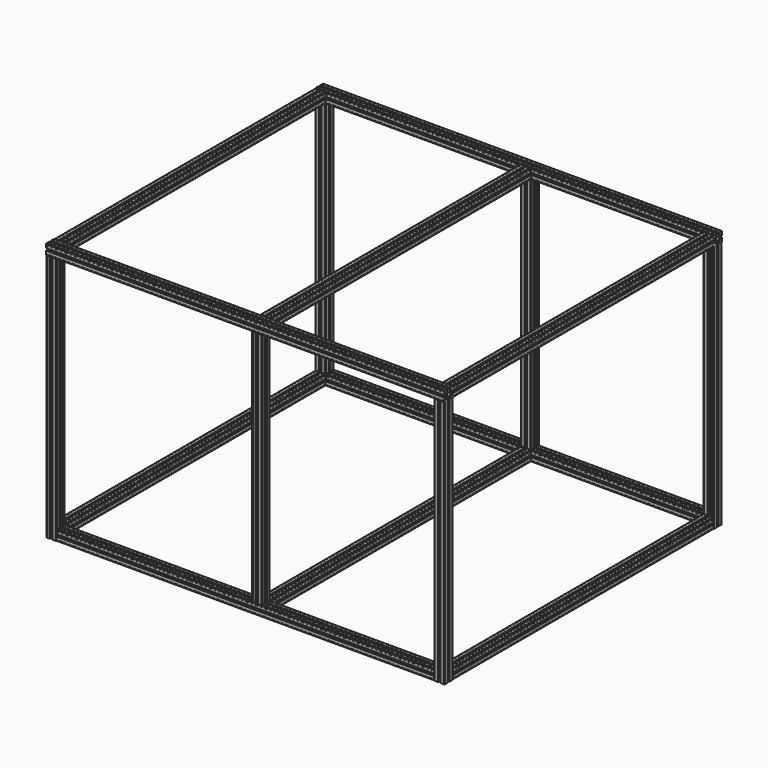
from build123d import *

# Parameters (mm, degrees)
F1_DEPTH       = 480
F6_DEPTH       = 730
F10_DEPTH      = 20
F10_DEPTH_BACK = 750
F15_DEPTH      = 630
F22_DEPTH      = 460


with BuildPart() as f1:
    # F0 (on Top) → F1 (new body)
    with BuildSketch(Plane.XY):
        with BuildLine():
            Line((25.693125, -24.475), (25.693125, -23.275))
            Line((25.693125, -23.275), (25.009673, -23.275))
            Line((25.009673, -23.275), (24.043125, -22.308452))
            Line((24.043125, -22.308452), (24.043125, -21.625))
            Line((24.043125, -21.625), (22.843125, -21.625))
            Line((22.843125, -21.625), (22.843125, -24.125))
            Line((22.843125, -24.125), (18.693125, -24.9362781955))
            Line((18.693125, -24.9362781955), (18.693125, -27.025))
            ThreePointArc((18.693125, -27.025), (19.8244958499, -27.4936291501), (20.293125, -28.625))
            Line((20.293125, -28.625), (22.3818468045, -28.625))
            Line((22.3818468045, -28.625), (21.893125, -26.125))
            Line((21.893125, -26.125), (23.193125, -26.125))
            Line((23.193125, -26.125), (23.193125, -24.475))
            Line((23.193125, -24.475), (25.693125, -24.475))
        make_face()
        with BuildLine():
            Line((23.193125, -32.775), (22.3818468045, -28.625))
            Line((22.3818468045, -28.625), (20.293125, -28.625))
            ThreePointArc((20.293125, -28.625), (19.8244958499, -29.7563708499), (18.693125, -30.225))
            Line((18.693125, -30.225), (18.693125, -32.3137218045))
            Line((18.693125, -32.3137218045), (21.193125, -31.825))
            Line((21.193125, -31.825), (21.193125, -33.125))
            Line((21.193125, -33.125), (22.843125, -33.125))
            Line((22.843125, -33.125), (22.843125, -35.625))
            Line((22.843125, -35.625), (24.043125, -35.625))
            Line((24.043125, -35.625), (24.043125, -34.941548))
            Line((24.043125, -34.941548), (25.009673, -33.975))
            Line((25.009673, -33.975), (25.693125, -33.975))
            Line((25.693125, -33.975), (25.693125, -32.775))
            Line((25.693125, -32.775), (23.193125, -32.775))
        make_face()
        with BuildLine():
            Line((18.693125, -27.025), (18.693125, -24.9362781955))
            Line((18.693125, -24.9362781955), (16.193125, -25.425))
            Line((16.193125, -25.425), (16.193125, -24.125))
            Line((16.193125, -24.125), (14.543125, -24.125))
            Line((14.543125, -24.125), (14.543125, -21.625))
            Line((14.543125, -21.625), (13.343125, -21.625))
            Line((13.343125, -21.625), (13.343125, -22.308452))
            Line((13.343125, -22.308452), (12.376577, -23.275))
            Line((12.376577, -23.275), (11.693125, -23.275))
            Line((11.693125, -23.275), (11.693125, -24.475))
            Line((11.693125, -24.475), (14.193125, -24.475))
            Line((14.193125, -24.475), (15.0044031955, -28.625))
            Line((15.0044031955, -28.625), (17.093125, -28.625))
            ThreePointArc((17.093125, -28.625), (17.5617541501, -27.4936291501), (18.693125, -27.025))
        make_face()
        with BuildLine():
            ThreePointArc((18.693125, -30.225), (17.5617541501, -29.7563708499), (17.093125, -28.625))
            Line((17.093125, -28.625), (15.0044031955, -28.625))
            Line((15.0044031955, -28.625), (15.493125, -31.125))
            Line((15.493125, -31.125), (14.193125, -31.125))
            Line((14.193125, -31.125), (14.193125, -32.775))
            Line((14.193125, -32.775), (11.693125, -32.775))
            Line((11.693125, -32.775), (11.693125, -33.975))
            Line((11.693125, -33.975), (12.376577, -33.975))
            Line((12.376577, -33.975), (13.343125, -34.941548))
            Line((13.343125, -34.941548), (13.343125, -35.625))
            Line((13.343125, -35.625), (14.543125, -35.625))
            Line((14.543125, -35.625), (14.543125, -33.125))
            Line((14.543125, -33.125), (18.693125, -32.3137218045))
            Line((18.693125, -32.3137218045), (18.693125, -30.225))
        make_face()
        with BuildLine():
            Line((18.693125, -30.225), (18.693125, -28.625))
            Line((18.693125, -28.625), (17.093125, -28.625))
            ThreePointArc((17.093125, -28.625), (17.5617541501, -29.7563708499), (18.693125, -30.225))
        make_face()
        with BuildLine():
            Line((20.293125, -28.625), (18.693125, -28.625))
            Line((18.693125, -28.625), (18.693125, -30.225))
            ThreePointArc((18.693125, -30.225), (19.8244958499, -29.7563708499), (20.293125, -28.625))
        make_face()
        with BuildLine():
            ThreePointArc((20.293125, -28.625), (19.8244958499, -27.4936291501), (18.693125, -27.025))
            Line((18.693125, -27.025), (18.693125, -28.625))
            Line((18.693125, -28.625), (20.293125, -28.625))
        make_face()
        with BuildLine():
            Line((18.693125, -28.625), (18.693125, -27.025))
            ThreePointArc((18.693125, -27.025), (17.5617541501, -27.4936291501), (17.093125, -28.625))
            Line((17.093125, -28.625), (18.693125, -28.625))
        make_face()
        Polygon((11.693125, -35.625), (13.343125, -35.625), (13.343125, -34.941548), (12.376577, -33.975), (11.693125, -33.975), align=None)
        Polygon((13.343125, -36.308452), (13.343125, -35.625), (11.693125, -35.625), (11.693125, -37.275), (12.376577, -37.275), align=None)
        Polygon((10.043125, -35.625), (11.693125, -35.625), (11.693125, -33.975), (11.009673, -33.975), (10.043125, -34.941548), align=None)
        Polygon((11.693125, -37.275), (11.693125, -35.625), (10.043125, -35.625), (10.043125, -36.308452), (11.009673, -37.275), align=None)
        Polygon((13.343125, -21.625), (14.543125, -21.625), (14.543125, -20.125), (16.543125, -20.125), (16.543125, -18.625), (12.443125, -18.625), (12.443125, -18.825), (11.693125, -18.825), (11.693125, -19.975), (12.376577, -19.975), (13.343125, -20.941548), align=None)
        Polygon((14.543125, -37.125), (14.543125, -35.625), (13.343125, -35.625), (13.343125, -36.308452), (12.376577, -37.275), (11.693125, -37.275), (11.693125, -38.425), (12.443125, -38.425), (12.443125, -38.625), (16.543125, -38.625), (16.543125, -37.125), align=None)
        Polygon((11.693125, -21.625), (13.343125, -21.625), (13.343125, -20.941548), (12.376577, -19.975), (11.693125, -19.975), align=None)
        Polygon((27.193125, -32.775), (25.693125, -32.775), (25.693125, -33.975), (26.376577, -33.975), (27.343125, -34.941548), (27.343125, -35.625), (28.493125, -35.625), (28.493125, -34.875), (28.693125, -34.875), (28.693125, -30.775), (27.193125, -30.775), align=None)
        Polygon((25.693125, -19.975), (25.693125, -18.825), (24.943125, -18.825), (24.943125, -18.625), (20.843125, -18.625), (20.843125, -20.125), (22.843125, -20.125), (22.843125, -21.625), (24.043125, -21.625), (24.043125, -20.941548), (25.009673, -19.975), align=None)
        Polygon((25.693125, -21.625), (25.693125, -19.975), (25.009673, -19.975), (24.043125, -20.941548), (24.043125, -21.625), align=None)
        Polygon((26.376577, -23.275), (25.693125, -23.275), (25.693125, -24.475), (27.193125, -24.475), (27.193125, -26.475), (28.693125, -26.475), (28.693125, -22.375), (28.493125, -22.375), (28.493125, -21.625), (27.343125, -21.625), (27.343125, -22.308452), align=None)
        Polygon((25.693125, -38.425), (25.693125, -37.275), (25.009673, -37.275), (24.043125, -36.308452), (24.043125, -35.625), (22.843125, -35.625), (22.843125, -37.125), (20.843125, -37.125), (20.843125, -38.625), (24.943125, -38.625), (24.943125, -38.425), align=None)
        Polygon((25.693125, -37.275), (25.693125, -35.625), (24.043125, -35.625), (24.043125, -36.308452), (25.009673, -37.275), align=None)
        Polygon((27.343125, -35.625), (25.693125, -35.625), (25.693125, -37.275), (26.376577, -37.275), (27.343125, -36.308452), align=None)
        Polygon((26.376577, -33.975), (25.693125, -33.975), (25.693125, -35.625), (27.343125, -35.625), (27.343125, -34.941548), align=None)
        Polygon((11.009673, -23.275), (11.693125, -23.275), (11.693125, -21.625), (10.043125, -21.625), (10.043125, -22.308452), align=None)
        Polygon((11.693125, -33.975), (11.693125, -32.775), (10.193125, -32.775), (10.193125, -30.775), (8.693125, -30.775), (8.693125, -34.875), (8.893125, -34.875), (8.893125, -35.625), (10.043125, -35.625), (10.043125, -34.941548), (11.009673, -33.975), align=None)
        Polygon((10.193125, -24.475), (11.693125, -24.475), (11.693125, -23.275), (11.009673, -23.275), (10.043125, -22.308452), (10.043125, -21.625), (8.893125, -21.625), (8.893125, -22.375), (8.693125, -22.375), (8.693125, -26.475), (10.193125, -26.475), align=None)
        Polygon((11.693125, -38.425), (11.693125, -37.275), (11.009673, -37.275), (10.043125, -36.308452), (10.043125, -35.625), (8.893125, -35.625), (8.893125, -36.375), (8.693125, -36.375), (8.693125, -37.625), (9.693125, -38.625), (10.943125, -38.625), (10.943125, -38.425), align=None)
        Polygon((11.009673, -19.975), (11.693125, -19.975), (11.693125, -18.825), (10.943125, -18.825), (10.943125, -18.625), (9.693125, -18.625), (8.693125, -19.625), (8.693125, -20.875), (8.893125, -20.875), (8.893125, -21.625), (10.043125, -21.625), (10.043125, -20.941548), align=None)
        Polygon((10.043125, -21.625), (11.693125, -21.625), (11.693125, -19.975), (11.009673, -19.975), (10.043125, -20.941548), align=None)
        Polygon((26.443125, -18.825), (25.693125, -18.825), (25.693125, -19.975), (26.376577, -19.975), (27.343125, -20.941548), (27.343125, -21.625), (28.493125, -21.625), (28.493125, -20.875), (28.693125, -20.875), (28.693125, -19.625), (27.693125, -18.625), (26.443125, -18.625), align=None)
        Polygon((26.376577, -19.975), (25.693125, -19.975), (25.693125, -21.625), (27.343125, -21.625), (27.343125, -20.941548), align=None)
        Polygon((25.693125, -23.275), (25.693125, -21.625), (24.043125, -21.625), (24.043125, -22.308452), (25.009673, -23.275), align=None)
        Polygon((26.376577, -37.275), (25.693125, -37.275), (25.693125, -38.425), (26.443125, -38.425), (26.443125, -38.625), (27.693125, -38.625), (28.693125, -37.625), (28.693125, -36.375), (28.493125, -36.375), (28.493125, -35.625), (27.343125, -35.625), (27.343125, -36.308452), align=None)
        Polygon((25.693125, -35.625), (25.693125, -33.975), (25.009673, -33.975), (24.043125, -34.941548), (24.043125, -35.625), align=None)
        Polygon((13.343125, -22.308452), (13.343125, -21.625), (11.693125, -21.625), (11.693125, -23.275), (12.376577, -23.275), align=None)
        Polygon((27.343125, -21.625), (25.693125, -21.625), (25.693125, -23.275), (26.376577, -23.275), (27.343125, -22.308452), align=None)
    extrude(amount=F1_DEPTH)


with BuildPart() as f2_1:
    # F2: copy of F1
    add(f1.part.moved(Location((0, 650, 0))))


with BuildPart() as f3_1:
    # F3: copy of F1
    add(f1.part.moved(Location((-750, 0, 0))))


with BuildPart() as f3_2:
    # F3: copy of F2_1
    add(f2_1.part.moved(Location((-750, 0, 0))))


with BuildPart() as f6:
    # F5 (on offset) → F6 (new body)
    with BuildSketch(Plane.YZ.offset(8.7)):
        with BuildLine():
            Line((25.693125, -24.475), (25.693125, -23.275))
            Line((25.693125, -23.275), (25.009673, -23.275))
            Line((25.009673, -23.275), (24.043125, -22.308452))
            Line((24.043125, -22.308452), (24.043125, -21.625))
            Line((24.043125, -21.625), (22.843125, -21.625))
            Line((22.843125, -21.625), (22.843125, -24.125))
            Line((22.843125, -24.125), (18.693125, -24.9362781955))
            Line((18.693125, -24.9362781955), (18.693125, -27.025))
            ThreePointArc((18.693125, -27.025), (19.8244958499, -27.4936291501), (20.293125, -28.625))
            Line((20.293125, -28.625), (22.3818468045, -28.625))
            Line((22.3818468045, -28.625), (21.893125, -26.125))
            Line((21.893125, -26.125), (23.193125, -26.125))
            Line((23.193125, -26.125), (23.193125, -24.475))
            Line((23.193125, -24.475), (25.693125, -24.475))
        make_face()
        with BuildLine():
            Line((23.193125, -32.775), (22.3818468045, -28.625))
            Line((22.3818468045, -28.625), (20.293125, -28.625))
            ThreePointArc((20.293125, -28.625), (19.8244958499, -29.7563708499), (18.693125, -30.225))
            Line((18.693125, -30.225), (18.693125, -32.3137218045))
            Line((18.693125, -32.3137218045), (21.193125, -31.825))
            Line((21.193125, -31.825), (21.193125, -33.125))
            Line((21.193125, -33.125), (22.843125, -33.125))
            Line((22.843125, -33.125), (22.843125, -35.625))
            Line((22.843125, -35.625), (24.043125, -35.625))
            Line((24.043125, -35.625), (24.043125, -34.941548))
            Line((24.043125, -34.941548), (25.009673, -33.975))
            Line((25.009673, -33.975), (25.693125, -33.975))
            Line((25.693125, -33.975), (25.693125, -32.775))
            Line((25.693125, -32.775), (23.193125, -32.775))
        make_face()
        with BuildLine():
            Line((18.693125, -27.025), (18.693125, -24.9362781955))
            Line((18.693125, -24.9362781955), (16.193125, -25.425))
            Line((16.193125, -25.425), (16.193125, -24.125))
            Line((16.193125, -24.125), (14.543125, -24.125))
            Line((14.543125, -24.125), (14.543125, -21.625))
            Line((14.543125, -21.625), (13.343125, -21.625))
            Line((13.343125, -21.625), (13.343125, -22.308452))
            Line((13.343125, -22.308452), (12.376577, -23.275))
            Line((12.376577, -23.275), (11.693125, -23.275))
            Line((11.693125, -23.275), (11.693125, -24.475))
            Line((11.693125, -24.475), (14.193125, -24.475))
            Line((14.193125, -24.475), (15.0044031955, -28.625))
            Line((15.0044031955, -28.625), (17.093125, -28.625))
            ThreePointArc((17.093125, -28.625), (17.5617541501, -27.4936291501), (18.693125, -27.025))
        make_face()
        with BuildLine():
            ThreePointArc((18.693125, -30.225), (17.5617541501, -29.7563708499), (17.093125, -28.625))
            Line((17.093125, -28.625), (15.0044031955, -28.625))
            Line((15.0044031955, -28.625), (15.493125, -31.125))
            Line((15.493125, -31.125), (14.193125, -31.125))
            Line((14.193125, -31.125), (14.193125, -32.775))
            Line((14.193125, -32.775), (11.693125, -32.775))
            Line((11.693125, -32.775), (11.693125, -33.975))
            Line((11.693125, -33.975), (12.376577, -33.975))
            Line((12.376577, -33.975), (13.343125, -34.941548))
            Line((13.343125, -34.941548), (13.343125, -35.625))
            Line((13.343125, -35.625), (14.543125, -35.625))
            Line((14.543125, -35.625), (14.543125, -33.125))
            Line((14.543125, -33.125), (18.693125, -32.3137218045))
            Line((18.693125, -32.3137218045), (18.693125, -30.225))
        make_face()
        Polygon((14.543125, -37.125), (14.543125, -35.625), (13.343125, -35.625), (13.343125, -36.308452), (12.376577, -37.275), (11.693125, -37.275), (11.693125, -38.425), (12.443125, -38.425), (12.443125, -38.625), (16.543125, -38.625), (16.543125, -37.125), align=None)
        with BuildLine():
            ThreePointArc((20.293125, -28.625), (19.8244958499, -27.4936291501), (18.693125, -27.025))
            Line((18.693125, -27.025), (18.693125, -28.625))
            Line((18.693125, -28.625), (20.293125, -28.625))
        make_face()
        with BuildLine():
            Line((18.693125, -30.225), (18.693125, -28.625))
            Line((18.693125, -28.625), (17.093125, -28.625))
            ThreePointArc((17.093125, -28.625), (17.5617541501, -29.7563708499), (18.693125, -30.225))
        make_face()
        with BuildLine():
            Line((20.293125, -28.625), (18.693125, -28.625))
            Line((18.693125, -28.625), (18.693125, -30.225))
            ThreePointArc((18.693125, -30.225), (19.8244958499, -29.7563708499), (20.293125, -28.625))
        make_face()
        Polygon((13.343125, -21.625), (14.543125, -21.625), (14.543125, -20.125), (16.543125, -20.125), (16.543125, -18.625), (12.443125, -18.625), (12.443125, -18.825), (11.693125, -18.825), (11.693125, -19.975), (12.376577, -19.975), (13.343125, -20.941548), align=None)
        with BuildLine():
            Line((18.693125, -28.625), (18.693125, -27.025))
            ThreePointArc((18.693125, -27.025), (17.5617541501, -27.4936291501), (17.093125, -28.625))
            Line((17.093125, -28.625), (18.693125, -28.625))
        make_face()
        Polygon((25.693125, -19.975), (25.693125, -18.825), (24.943125, -18.825), (24.943125, -18.625), (20.843125, -18.625), (20.843125, -20.125), (22.843125, -20.125), (22.843125, -21.625), (24.043125, -21.625), (24.043125, -20.941548), (25.009673, -19.975), align=None)
        Polygon((25.693125, -38.425), (25.693125, -37.275), (25.009673, -37.275), (24.043125, -36.308452), (24.043125, -35.625), (22.843125, -35.625), (22.843125, -37.125), (20.843125, -37.125), (20.843125, -38.625), (24.943125, -38.625), (24.943125, -38.425), align=None)
        Polygon((11.009673, -19.975), (11.693125, -19.975), (11.693125, -18.825), (10.943125, -18.825), (10.943125, -18.625), (9.693125, -18.625), (8.693125, -19.625), (8.693125, -20.875), (8.893125, -20.875), (8.893125, -21.625), (10.043125, -21.625), (10.043125, -20.941548), align=None)
        Polygon((11.693125, -21.625), (13.343125, -21.625), (13.343125, -20.941548), (12.376577, -19.975), (11.693125, -19.975), align=None)
        Polygon((10.043125, -21.625), (11.693125, -21.625), (11.693125, -19.975), (11.009673, -19.975), (10.043125, -20.941548), align=None)
        Polygon((13.343125, -22.308452), (13.343125, -21.625), (11.693125, -21.625), (11.693125, -23.275), (12.376577, -23.275), align=None)
        Polygon((11.009673, -23.275), (11.693125, -23.275), (11.693125, -21.625), (10.043125, -21.625), (10.043125, -22.308452), align=None)
        Polygon((10.193125, -24.475), (11.693125, -24.475), (11.693125, -23.275), (11.009673, -23.275), (10.043125, -22.308452), (10.043125, -21.625), (8.893125, -21.625), (8.893125, -22.375), (8.693125, -22.375), (8.693125, -26.475), (10.193125, -26.475), align=None)
        Polygon((11.693125, -33.975), (11.693125, -32.775), (10.193125, -32.775), (10.193125, -30.775), (8.693125, -30.775), (8.693125, -34.875), (8.893125, -34.875), (8.893125, -35.625), (10.043125, -35.625), (10.043125, -34.941548), (11.009673, -33.975), align=None)
        Polygon((11.693125, -35.625), (13.343125, -35.625), (13.343125, -34.941548), (12.376577, -33.975), (11.693125, -33.975), align=None)
        Polygon((27.193125, -32.775), (25.693125, -32.775), (25.693125, -33.975), (26.376577, -33.975), (27.343125, -34.941548), (27.343125, -35.625), (28.493125, -35.625), (28.493125, -34.875), (28.693125, -34.875), (28.693125, -30.775), (27.193125, -30.775), align=None)
        Polygon((26.443125, -18.825), (25.693125, -18.825), (25.693125, -19.975), (26.376577, -19.975), (27.343125, -20.941548), (27.343125, -21.625), (28.493125, -21.625), (28.493125, -20.875), (28.693125, -20.875), (28.693125, -19.625), (27.693125, -18.625), (26.443125, -18.625), align=None)
        Polygon((25.693125, -21.625), (25.693125, -19.975), (25.009673, -19.975), (24.043125, -20.941548), (24.043125, -21.625), align=None)
        Polygon((13.343125, -36.308452), (13.343125, -35.625), (11.693125, -35.625), (11.693125, -37.275), (12.376577, -37.275), align=None)
        Polygon((26.376577, -19.975), (25.693125, -19.975), (25.693125, -21.625), (27.343125, -21.625), (27.343125, -20.941548), align=None)
        Polygon((25.693125, -23.275), (25.693125, -21.625), (24.043125, -21.625), (24.043125, -22.308452), (25.009673, -23.275), align=None)
        Polygon((27.343125, -21.625), (25.693125, -21.625), (25.693125, -23.275), (26.376577, -23.275), (27.343125, -22.308452), align=None)
        Polygon((26.376577, -23.275), (25.693125, -23.275), (25.693125, -24.475), (27.193125, -24.475), (27.193125, -26.475), (28.693125, -26.475), (28.693125, -22.375), (28.493125, -22.375), (28.493125, -21.625), (27.343125, -21.625), (27.343125, -22.308452), align=None)
        Polygon((26.376577, -37.275), (25.693125, -37.275), (25.693125, -38.425), (26.443125, -38.425), (26.443125, -38.625), (27.693125, -38.625), (28.693125, -37.625), (28.693125, -36.375), (28.493125, -36.375), (28.493125, -35.625), (27.343125, -35.625), (27.343125, -36.308452), align=None)
        Polygon((25.693125, -37.275), (25.693125, -35.625), (24.043125, -35.625), (24.043125, -36.308452), (25.009673, -37.275), align=None)
        Polygon((10.043125, -35.625), (11.693125, -35.625), (11.693125, -33.975), (11.009673, -33.975), (10.043125, -34.941548), align=None)
        Polygon((27.343125, -35.625), (25.693125, -35.625), (25.693125, -37.275), (26.376577, -37.275), (27.343125, -36.308452), align=None)
        Polygon((25.693125, -35.625), (25.693125, -33.975), (25.009673, -33.975), (24.043125, -34.941548), (24.043125, -35.625), align=None)
        Polygon((26.376577, -33.975), (25.693125, -33.975), (25.693125, -35.625), (27.343125, -35.625), (27.343125, -34.941548), align=None)
        Polygon((11.693125, -37.275), (11.693125, -35.625), (10.043125, -35.625), (10.043125, -36.308452), (11.009673, -37.275), align=None)
        Polygon((11.693125, -38.425), (11.693125, -37.275), (11.009673, -37.275), (10.043125, -36.308452), (10.043125, -35.625), (8.893125, -35.625), (8.893125, -36.375), (8.693125, -36.375), (8.693125, -37.625), (9.693125, -38.625), (10.943125, -38.625), (10.943125, -38.425), align=None)
    extrude(amount=-F6_DEPTH)


with BuildPart() as f6_1:
    # F7: moved
    add(f6.part.moved(Location((0, -47.3, 38.65))))


with BuildPart() as f8_1:
    # F8: copy of F6
    add(f6_1.part.moved(Location((0, 650, 0))))


with BuildPart() as f10:
    # F9 (on offset) → F10 (new body, two sides)
    with BuildSketch(Plane.YZ.offset(8.7)) as f10_sk:
        with BuildLine():
            Line((25.693125, -24.475), (25.693125, -23.275))
            Line((25.693125, -23.275), (25.009673, -23.275))
            Line((25.009673, -23.275), (24.043125, -22.308452))
            Line((24.043125, -22.308452), (24.043125, -21.625))
            Line((24.043125, -21.625), (22.843125, -21.625))
            Line((22.843125, -21.625), (22.843125, -24.125))
            Line((22.843125, -24.125), (18.693125, -24.9362781955))
            Line((18.693125, -24.9362781955), (18.693125, -27.025))
            ThreePointArc((18.693125, -27.025), (19.8244958499, -27.4936291501), (20.293125, -28.625))
            Line((20.293125, -28.625), (22.3818468045, -28.625))
            Line((22.3818468045, -28.625), (21.893125, -26.125))
            Line((21.893125, -26.125), (23.193125, -26.125))
            Line((23.193125, -26.125), (23.193125, -24.475))
            Line((23.193125, -24.475), (25.693125, -24.475))
        make_face()
        with BuildLine():
            Line((23.193125, -32.775), (22.3818468045, -28.625))
            Line((22.3818468045, -28.625), (20.293125, -28.625))
            ThreePointArc((20.293125, -28.625), (19.8244958499, -29.7563708499), (18.693125, -30.225))
            Line((18.693125, -30.225), (18.693125, -32.3137218045))
            Line((18.693125, -32.3137218045), (21.193125, -31.825))
            Line((21.193125, -31.825), (21.193125, -33.125))
            Line((21.193125, -33.125), (22.843125, -33.125))
            Line((22.843125, -33.125), (22.843125, -35.625))
            Line((22.843125, -35.625), (24.043125, -35.625))
            Line((24.043125, -35.625), (24.043125, -34.941548))
            Line((24.043125, -34.941548), (25.009673, -33.975))
            Line((25.009673, -33.975), (25.693125, -33.975))
            Line((25.693125, -33.975), (25.693125, -32.775))
            Line((25.693125, -32.775), (23.193125, -32.775))
        make_face()
        with BuildLine():
            Line((18.693125, -27.025), (18.693125, -24.9362781955))
            Line((18.693125, -24.9362781955), (16.193125, -25.425))
            Line((16.193125, -25.425), (16.193125, -24.125))
            Line((16.193125, -24.125), (14.543125, -24.125))
            Line((14.543125, -24.125), (14.543125, -21.625))
            Line((14.543125, -21.625), (13.343125, -21.625))
            Line((13.343125, -21.625), (13.343125, -22.308452))
            Line((13.343125, -22.308452), (12.376577, -23.275))
            Line((12.376577, -23.275), (11.693125, -23.275))
            Line((11.693125, -23.275), (11.693125, -24.475))
            Line((11.693125, -24.475), (14.193125, -24.475))
            Line((14.193125, -24.475), (15.0044031955, -28.625))
            Line((15.0044031955, -28.625), (17.093125, -28.625))
            ThreePointArc((17.093125, -28.625), (17.5617541501, -27.4936291501), (18.693125, -27.025))
        make_face()
        with BuildLine():
            ThreePointArc((18.693125, -30.225), (17.5617541501, -29.7563708499), (17.093125, -28.625))
            Line((17.093125, -28.625), (15.0044031955, -28.625))
            Line((15.0044031955, -28.625), (15.493125, -31.125))
            Line((15.493125, -31.125), (14.193125, -31.125))
            Line((14.193125, -31.125), (14.193125, -32.775))
            Line((14.193125, -32.775), (11.693125, -32.775))
            Line((11.693125, -32.775), (11.693125, -33.975))
            Line((11.693125, -33.975), (12.376577, -33.975))
            Line((12.376577, -33.975), (13.343125, -34.941548))
            Line((13.343125, -34.941548), (13.343125, -35.625))
            Line((13.343125, -35.625), (14.543125, -35.625))
            Line((14.543125, -35.625), (14.543125, -33.125))
            Line((14.543125, -33.125), (18.693125, -32.3137218045))
            Line((18.693125, -32.3137218045), (18.693125, -30.225))
        make_face()
        with BuildLine():
            Line((18.693125, -30.225), (18.693125, -28.625))
            Line((18.693125, -28.625), (17.093125, -28.625))
            ThreePointArc((17.093125, -28.625), (17.5617541501, -29.7563708499), (18.693125, -30.225))
        make_face()
        with BuildLine():
            Line((20.293125, -28.625), (18.693125, -28.625))
            Line((18.693125, -28.625), (18.693125, -30.225))
            ThreePointArc((18.693125, -30.225), (19.8244958499, -29.7563708499), (20.293125, -28.625))
        make_face()
        with BuildLine():
            ThreePointArc((20.293125, -28.625), (19.8244958499, -27.4936291501), (18.693125, -27.025))
            Line((18.693125, -27.025), (18.693125, -28.625))
            Line((18.693125, -28.625), (20.293125, -28.625))
        make_face()
        with BuildLine():
            Line((18.693125, -28.625), (18.693125, -27.025))
            ThreePointArc((18.693125, -27.025), (17.5617541501, -27.4936291501), (17.093125, -28.625))
            Line((17.093125, -28.625), (18.693125, -28.625))
        make_face()
        Polygon((25.693125, -38.425), (25.693125, -37.275), (25.009673, -37.275), (24.043125, -36.308452), (24.043125, -35.625), (22.843125, -35.625), (22.843125, -37.125), (20.843125, -37.125), (20.843125, -38.625), (24.943125, -38.625), (24.943125, -38.425), align=None)
        Polygon((11.693125, -33.975), (11.693125, -32.775), (10.193125, -32.775), (10.193125, -30.775), (8.693125, -30.775), (8.693125, -34.875), (8.893125, -34.875), (8.893125, -35.625), (10.043125, -35.625), (10.043125, -34.941548), (11.009673, -33.975), align=None)
        Polygon((11.693125, -35.625), (13.343125, -35.625), (13.343125, -34.941548), (12.376577, -33.975), (11.693125, -33.975), align=None)
        Polygon((13.343125, -21.625), (14.543125, -21.625), (14.543125, -20.125), (16.543125, -20.125), (16.543125, -18.625), (12.443125, -18.625), (12.443125, -18.825), (11.693125, -18.825), (11.693125, -19.975), (12.376577, -19.975), (13.343125, -20.941548), align=None)
        Polygon((14.543125, -37.125), (14.543125, -35.625), (13.343125, -35.625), (13.343125, -36.308452), (12.376577, -37.275), (11.693125, -37.275), (11.693125, -38.425), (12.443125, -38.425), (12.443125, -38.625), (16.543125, -38.625), (16.543125, -37.125), align=None)
        Polygon((26.376577, -19.975), (25.693125, -19.975), (25.693125, -21.625), (27.343125, -21.625), (27.343125, -20.941548), align=None)
        Polygon((26.376577, -23.275), (25.693125, -23.275), (25.693125, -24.475), (27.193125, -24.475), (27.193125, -26.475), (28.693125, -26.475), (28.693125, -22.375), (28.493125, -22.375), (28.493125, -21.625), (27.343125, -21.625), (27.343125, -22.308452), align=None)
        Polygon((10.193125, -24.475), (11.693125, -24.475), (11.693125, -23.275), (11.009673, -23.275), (10.043125, -22.308452), (10.043125, -21.625), (8.893125, -21.625), (8.893125, -22.375), (8.693125, -22.375), (8.693125, -26.475), (10.193125, -26.475), align=None)
        Polygon((13.343125, -36.308452), (13.343125, -35.625), (11.693125, -35.625), (11.693125, -37.275), (12.376577, -37.275), align=None)
        Polygon((11.009673, -19.975), (11.693125, -19.975), (11.693125, -18.825), (10.943125, -18.825), (10.943125, -18.625), (9.693125, -18.625), (8.693125, -19.625), (8.693125, -20.875), (8.893125, -20.875), (8.893125, -21.625), (10.043125, -21.625), (10.043125, -20.941548), align=None)
        Polygon((10.043125, -21.625), (11.693125, -21.625), (11.693125, -19.975), (11.009673, -19.975), (10.043125, -20.941548), align=None)
        Polygon((27.193125, -32.775), (25.693125, -32.775), (25.693125, -33.975), (26.376577, -33.975), (27.343125, -34.941548), (27.343125, -35.625), (28.493125, -35.625), (28.493125, -34.875), (28.693125, -34.875), (28.693125, -30.775), (27.193125, -30.775), align=None)
        Polygon((25.693125, -19.975), (25.693125, -18.825), (24.943125, -18.825), (24.943125, -18.625), (20.843125, -18.625), (20.843125, -20.125), (22.843125, -20.125), (22.843125, -21.625), (24.043125, -21.625), (24.043125, -20.941548), (25.009673, -19.975), align=None)
        Polygon((13.343125, -22.308452), (13.343125, -21.625), (11.693125, -21.625), (11.693125, -23.275), (12.376577, -23.275), align=None)
        Polygon((25.693125, -23.275), (25.693125, -21.625), (24.043125, -21.625), (24.043125, -22.308452), (25.009673, -23.275), align=None)
        Polygon((27.343125, -21.625), (25.693125, -21.625), (25.693125, -23.275), (26.376577, -23.275), (27.343125, -22.308452), align=None)
        Polygon((26.376577, -37.275), (25.693125, -37.275), (25.693125, -38.425), (26.443125, -38.425), (26.443125, -38.625), (27.693125, -38.625), (28.693125, -37.625), (28.693125, -36.375), (28.493125, -36.375), (28.493125, -35.625), (27.343125, -35.625), (27.343125, -36.308452), align=None)
        Polygon((25.693125, -37.275), (25.693125, -35.625), (24.043125, -35.625), (24.043125, -36.308452), (25.009673, -37.275), align=None)
        Polygon((25.693125, -35.625), (25.693125, -33.975), (25.009673, -33.975), (24.043125, -34.941548), (24.043125, -35.625), align=None)
        Polygon((11.009673, -23.275), (11.693125, -23.275), (11.693125, -21.625), (10.043125, -21.625), (10.043125, -22.308452), align=None)
        Polygon((10.043125, -35.625), (11.693125, -35.625), (11.693125, -33.975), (11.009673, -33.975), (10.043125, -34.941548), align=None)
        Polygon((11.693125, -21.625), (13.343125, -21.625), (13.343125, -20.941548), (12.376577, -19.975), (11.693125, -19.975), align=None)
        Polygon((26.443125, -18.825), (25.693125, -18.825), (25.693125, -19.975), (26.376577, -19.975), (27.343125, -20.941548), (27.343125, -21.625), (28.493125, -21.625), (28.493125, -20.875), (28.693125, -20.875), (28.693125, -19.625), (27.693125, -18.625), (26.443125, -18.625), align=None)
        Polygon((25.693125, -21.625), (25.693125, -19.975), (25.009673, -19.975), (24.043125, -20.941548), (24.043125, -21.625), align=None)
        Polygon((27.343125, -35.625), (25.693125, -35.625), (25.693125, -37.275), (26.376577, -37.275), (27.343125, -36.308452), align=None)
        Polygon((26.376577, -33.975), (25.693125, -33.975), (25.693125, -35.625), (27.343125, -35.625), (27.343125, -34.941548), align=None)
        Polygon((11.693125, -38.425), (11.693125, -37.275), (11.009673, -37.275), (10.043125, -36.308452), (10.043125, -35.625), (8.893125, -35.625), (8.893125, -36.375), (8.693125, -36.375), (8.693125, -37.625), (9.693125, -38.625), (10.943125, -38.625), (10.943125, -38.425), align=None)
        Polygon((11.693125, -37.275), (11.693125, -35.625), (10.043125, -35.625), (10.043125, -36.308452), (11.009673, -37.275), align=None)
    extrude(amount=F10_DEPTH)
    extrude(f10_sk.sketch, amount=-F10_DEPTH_BACK)


with BuildPart() as f10_1:
    # F11: moved
    add(f10.part.moved(Location((0, -47.3, 518.6))))


with BuildPart() as f12_1:
    # F12: copy of F10
    add(f10_1.part.moved(Location((0, 650, 0))))


with BuildPart() as f15:
    # F14 (on offset) → F15 (new body)
    with BuildSketch(Plane.XZ.offset(18.6)):
        with BuildLine():
            Line((25.693125, -24.475), (25.693125, -23.275))
            Line((25.693125, -23.275), (25.009673, -23.275))
            Line((25.009673, -23.275), (24.043125, -22.308452))
            Line((24.043125, -22.308452), (24.043125, -21.625))
            Line((24.043125, -21.625), (22.843125, -21.625))
            Line((22.843125, -21.625), (22.843125, -24.125))
            Line((22.843125, -24.125), (18.693125, -24.9362781955))
            Line((18.693125, -24.9362781955), (18.693125, -27.025))
            ThreePointArc((18.693125, -27.025), (19.8244958499, -27.4936291501), (20.293125, -28.625))
            Line((20.293125, -28.625), (22.3818468045, -28.625))
            Line((22.3818468045, -28.625), (21.893125, -26.125))
            Line((21.893125, -26.125), (23.193125, -26.125))
            Line((23.193125, -26.125), (23.193125, -24.475))
            Line((23.193125, -24.475), (25.693125, -24.475))
        make_face()
        with BuildLine():
            Line((23.193125, -32.775), (22.3818468045, -28.625))
            Line((22.3818468045, -28.625), (20.293125, -28.625))
            ThreePointArc((20.293125, -28.625), (19.8244958499, -29.7563708499), (18.693125, -30.225))
            Line((18.693125, -30.225), (18.693125, -32.3137218045))
            Line((18.693125, -32.3137218045), (21.193125, -31.825))
            Line((21.193125, -31.825), (21.193125, -33.125))
            Line((21.193125, -33.125), (22.843125, -33.125))
            Line((22.843125, -33.125), (22.843125, -35.625))
            Line((22.843125, -35.625), (24.043125, -35.625))
            Line((24.043125, -35.625), (24.043125, -34.941548))
            Line((24.043125, -34.941548), (25.009673, -33.975))
            Line((25.009673, -33.975), (25.693125, -33.975))
            Line((25.693125, -33.975), (25.693125, -32.775))
            Line((25.693125, -32.775), (23.193125, -32.775))
        make_face()
        with BuildLine():
            Line((18.693125, -27.025), (18.693125, -24.9362781955))
            Line((18.693125, -24.9362781955), (16.193125, -25.425))
            Line((16.193125, -25.425), (16.193125, -24.125))
            Line((16.193125, -24.125), (14.543125, -24.125))
            Line((14.543125, -24.125), (14.543125, -21.625))
            Line((14.543125, -21.625), (13.343125, -21.625))
            Line((13.343125, -21.625), (13.343125, -22.308452))
            Line((13.343125, -22.308452), (12.376577, -23.275))
            Line((12.376577, -23.275), (11.693125, -23.275))
            Line((11.693125, -23.275), (11.693125, -24.475))
            Line((11.693125, -24.475), (14.193125, -24.475))
            Line((14.193125, -24.475), (15.0044031955, -28.625))
            Line((15.0044031955, -28.625), (17.093125, -28.625))
            ThreePointArc((17.093125, -28.625), (17.5617541501, -27.4936291501), (18.693125, -27.025))
        make_face()
        with BuildLine():
            ThreePointArc((18.693125, -30.225), (17.5617541501, -29.7563708499), (17.093125, -28.625))
            Line((17.093125, -28.625), (15.0044031955, -28.625))
            Line((15.0044031955, -28.625), (15.493125, -31.125))
            Line((15.493125, -31.125), (14.193125, -31.125))
            Line((14.193125, -31.125), (14.193125, -32.775))
            Line((14.193125, -32.775), (11.693125, -32.775))
            Line((11.693125, -32.775), (11.693125, -33.975))
            Line((11.693125, -33.975), (12.376577, -33.975))
            Line((12.376577, -33.975), (13.343125, -34.941548))
            Line((13.343125, -34.941548), (13.343125, -35.625))
            Line((13.343125, -35.625), (14.543125, -35.625))
            Line((14.543125, -35.625), (14.543125, -33.125))
            Line((14.543125, -33.125), (18.693125, -32.3137218045))
            Line((18.693125, -32.3137218045), (18.693125, -30.225))
        make_face()
        with BuildLine():
            ThreePointArc((20.293125, -28.625), (19.8244958499, -27.4936291501), (18.693125, -27.025))
            Line((18.693125, -27.025), (18.693125, -28.625))
            Line((18.693125, -28.625), (20.293125, -28.625))
        make_face()
        with BuildLine():
            Line((18.693125, -28.625), (18.693125, -27.025))
            ThreePointArc((18.693125, -27.025), (17.5617541501, -27.4936291501), (17.093125, -28.625))
            Line((17.093125, -28.625), (18.693125, -28.625))
        make_face()
        with BuildLine():
            Line((18.693125, -30.225), (18.693125, -28.625))
            Line((18.693125, -28.625), (17.093125, -28.625))
            ThreePointArc((17.093125, -28.625), (17.5617541501, -29.7563708499), (18.693125, -30.225))
        make_face()
        with BuildLine():
            Line((20.293125, -28.625), (18.693125, -28.625))
            Line((18.693125, -28.625), (18.693125, -30.225))
            ThreePointArc((18.693125, -30.225), (19.8244958499, -29.7563708499), (20.293125, -28.625))
        make_face()
        Polygon((27.193125, -32.775), (25.693125, -32.775), (25.693125, -33.975), (26.376577, -33.975), (27.343125, -34.941548), (27.343125, -35.625), (28.493125, -35.625), (28.493125, -34.875), (28.693125, -34.875), (28.693125, -30.775), (27.193125, -30.775), align=None)
        Polygon((25.693125, -19.975), (25.693125, -18.825), (24.943125, -18.825), (24.943125, -18.625), (20.843125, -18.625), (20.843125, -20.125), (22.843125, -20.125), (22.843125, -21.625), (24.043125, -21.625), (24.043125, -20.941548), (25.009673, -19.975), align=None)
        Polygon((26.376577, -23.275), (25.693125, -23.275), (25.693125, -24.475), (27.193125, -24.475), (27.193125, -26.475), (28.693125, -26.475), (28.693125, -22.375), (28.493125, -22.375), (28.493125, -21.625), (27.343125, -21.625), (27.343125, -22.308452), align=None)
        Polygon((25.693125, -38.425), (25.693125, -37.275), (25.009673, -37.275), (24.043125, -36.308452), (24.043125, -35.625), (22.843125, -35.625), (22.843125, -37.125), (20.843125, -37.125), (20.843125, -38.625), (24.943125, -38.625), (24.943125, -38.425), align=None)
        Polygon((25.693125, -35.625), (25.693125, -33.975), (25.009673, -33.975), (24.043125, -34.941548), (24.043125, -35.625), align=None)
        Polygon((13.343125, -21.625), (14.543125, -21.625), (14.543125, -20.125), (16.543125, -20.125), (16.543125, -18.625), (12.443125, -18.625), (12.443125, -18.825), (11.693125, -18.825), (11.693125, -19.975), (12.376577, -19.975), (13.343125, -20.941548), align=None)
        Polygon((14.543125, -37.125), (14.543125, -35.625), (13.343125, -35.625), (13.343125, -36.308452), (12.376577, -37.275), (11.693125, -37.275), (11.693125, -38.425), (12.443125, -38.425), (12.443125, -38.625), (16.543125, -38.625), (16.543125, -37.125), align=None)
        Polygon((10.193125, -24.475), (11.693125, -24.475), (11.693125, -23.275), (11.009673, -23.275), (10.043125, -22.308452), (10.043125, -21.625), (8.893125, -21.625), (8.893125, -22.375), (8.693125, -22.375), (8.693125, -26.475), (10.193125, -26.475), align=None)
        Polygon((11.693125, -33.975), (11.693125, -32.775), (10.193125, -32.775), (10.193125, -30.775), (8.693125, -30.775), (8.693125, -34.875), (8.893125, -34.875), (8.893125, -35.625), (10.043125, -35.625), (10.043125, -34.941548), (11.009673, -33.975), align=None)
        Polygon((13.343125, -36.308452), (13.343125, -35.625), (11.693125, -35.625), (11.693125, -37.275), (12.376577, -37.275), align=None)
        Polygon((25.693125, -21.625), (25.693125, -19.975), (25.009673, -19.975), (24.043125, -20.941548), (24.043125, -21.625), align=None)
        Polygon((25.693125, -37.275), (25.693125, -35.625), (24.043125, -35.625), (24.043125, -36.308452), (25.009673, -37.275), align=None)
        Polygon((26.376577, -33.975), (25.693125, -33.975), (25.693125, -35.625), (27.343125, -35.625), (27.343125, -34.941548), align=None)
        Polygon((11.009673, -19.975), (11.693125, -19.975), (11.693125, -18.825), (10.943125, -18.825), (10.943125, -18.625), (9.693125, -18.625), (8.693125, -19.625), (8.693125, -20.875), (8.893125, -20.875), (8.893125, -21.625), (10.043125, -21.625), (10.043125, -20.941548), align=None)
        Polygon((10.043125, -21.625), (11.693125, -21.625), (11.693125, -19.975), (11.009673, -19.975), (10.043125, -20.941548), align=None)
        Polygon((11.693125, -38.425), (11.693125, -37.275), (11.009673, -37.275), (10.043125, -36.308452), (10.043125, -35.625), (8.893125, -35.625), (8.893125, -36.375), (8.693125, -36.375), (8.693125, -37.625), (9.693125, -38.625), (10.943125, -38.625), (10.943125, -38.425), align=None)
        Polygon((11.693125, -35.625), (13.343125, -35.625), (13.343125, -34.941548), (12.376577, -33.975), (11.693125, -33.975), align=None)
        Polygon((26.443125, -18.825), (25.693125, -18.825), (25.693125, -19.975), (26.376577, -19.975), (27.343125, -20.941548), (27.343125, -21.625), (28.493125, -21.625), (28.493125, -20.875), (28.693125, -20.875), (28.693125, -19.625), (27.693125, -18.625), (26.443125, -18.625), align=None)
        Polygon((26.376577, -19.975), (25.693125, -19.975), (25.693125, -21.625), (27.343125, -21.625), (27.343125, -20.941548), align=None)
        Polygon((25.693125, -23.275), (25.693125, -21.625), (24.043125, -21.625), (24.043125, -22.308452), (25.009673, -23.275), align=None)
        Polygon((27.343125, -21.625), (25.693125, -21.625), (25.693125, -23.275), (26.376577, -23.275), (27.343125, -22.308452), align=None)
        Polygon((10.043125, -35.625), (11.693125, -35.625), (11.693125, -33.975), (11.009673, -33.975), (10.043125, -34.941548), align=None)
        Polygon((26.376577, -37.275), (25.693125, -37.275), (25.693125, -38.425), (26.443125, -38.425), (26.443125, -38.625), (27.693125, -38.625), (28.693125, -37.625), (28.693125, -36.375), (28.493125, -36.375), (28.493125, -35.625), (27.343125, -35.625), (27.343125, -36.308452), align=None)
        Polygon((27.343125, -35.625), (25.693125, -35.625), (25.693125, -37.275), (26.376577, -37.275), (27.343125, -36.308452), align=None)
        Polygon((11.693125, -37.275), (11.693125, -35.625), (10.043125, -35.625), (10.043125, -36.308452), (11.009673, -37.275), align=None)
        Polygon((11.693125, -21.625), (13.343125, -21.625), (13.343125, -20.941548), (12.376577, -19.975), (11.693125, -19.975), align=None)
        Polygon((13.343125, -22.308452), (13.343125, -21.625), (11.693125, -21.625), (11.693125, -23.275), (12.376577, -23.275), align=None)
        Polygon((11.009673, -23.275), (11.693125, -23.275), (11.693125, -21.625), (10.043125, -21.625), (10.043125, -22.308452), align=None)
    extrude(amount=-F15_DEPTH)


with BuildPart() as f15_1:
    # F16: moved
    add(f15.part.moved(Location((0, 0, 38.6))))


with BuildPart() as f17_1:
    # F17: copy of F15
    add(f15_1.part.moved(Location((0, 0, 480))))


with BuildPart() as f18_1:
    # F18: copy of F15
    add(f15_1.part.moved(Location((-750, 0, 0))))


with BuildPart() as f18_2:
    # F18: copy of F17_1
    add(f17_1.part.moved(Location((-750, 0, 0))))


with BuildPart() as f19_1:
    # F19: copy of F17_1
    add(f17_1.part.moved(Location((-353, 0, 0))))


with BuildPart() as f19_2:
    # F19: copy of F15
    add(f15_1.part.moved(Location((-353, 0, 0))))


with BuildPart() as f22:
    # F21 (on offset) → F22 (new body)
    with BuildSketch(Plane.XY.offset(20)):
        with BuildLine():
            Line((18.693125, -27.025), (18.693125, -24.9362781955))
            Line((18.693125, -24.9362781955), (16.193125, -25.425))
            Line((16.193125, -25.425), (16.193125, -24.125))
            Line((16.193125, -24.125), (14.543125, -24.125))
            Line((14.543125, -24.125), (14.543125, -21.625))
            Line((14.543125, -21.625), (13.343125, -21.625))
            Line((13.343125, -21.625), (13.343125, -22.308452))
            Line((13.343125, -22.308452), (12.376577, -23.275))
            Line((12.376577, -23.275), (11.693125, -23.275))
            Line((11.693125, -23.275), (11.693125, -24.475))
            Line((11.693125, -24.475), (14.193125, -24.475))
            Line((14.193125, -24.475), (15.0044031955, -28.625))
            Line((15.0044031955, -28.625), (17.093125, -28.625))
            ThreePointArc((17.093125, -28.625), (17.5617541501, -27.4936291501), (18.693125, -27.025))
        make_face()
        Polygon((13.343125, -21.625), (14.543125, -21.625), (14.543125, -20.125), (16.543125, -20.125), (16.543125, -18.625), (12.443125, -18.625), (12.443125, -18.825), (11.693125, -18.825), (11.693125, -19.975), (12.376577, -19.975), (13.343125, -20.941548), align=None)
        with BuildLine():
            ThreePointArc((18.693125, -30.225), (17.5617541501, -29.7563708499), (17.093125, -28.625))
            Line((17.093125, -28.625), (15.0044031955, -28.625))
            Line((15.0044031955, -28.625), (15.493125, -31.125))
            Line((15.493125, -31.125), (14.193125, -31.125))
            Line((14.193125, -31.125), (14.193125, -32.775))
            Line((14.193125, -32.775), (11.693125, -32.775))
            Line((11.693125, -32.775), (11.693125, -33.975))
            Line((11.693125, -33.975), (12.376577, -33.975))
            Line((12.376577, -33.975), (13.343125, -34.941548))
            Line((13.343125, -34.941548), (13.343125, -35.625))
            Line((13.343125, -35.625), (14.543125, -35.625))
            Line((14.543125, -35.625), (14.543125, -33.125))
            Line((14.543125, -33.125), (18.693125, -32.3137218045))
            Line((18.693125, -32.3137218045), (18.693125, -30.225))
        make_face()
        Polygon((14.543125, -37.125), (14.543125, -35.625), (13.343125, -35.625), (13.343125, -36.308452), (12.376577, -37.275), (11.693125, -37.275), (11.693125, -38.425), (12.443125, -38.425), (12.443125, -38.625), (16.543125, -38.625), (16.543125, -37.125), align=None)
        Polygon((11.009673, -19.975), (11.693125, -19.975), (11.693125, -18.825), (10.943125, -18.825), (10.943125, -18.625), (9.693125, -18.625), (8.693125, -19.625), (8.693125, -20.875), (8.893125, -20.875), (8.893125, -21.625), (10.043125, -21.625), (10.043125, -20.941548), align=None)
        Polygon((11.693125, -21.625), (13.343125, -21.625), (13.343125, -20.941548), (12.376577, -19.975), (11.693125, -19.975), align=None)
        with BuildLine():
            ThreePointArc((20.293125, -28.625), (19.8244958499, -27.4936291501), (18.693125, -27.025))
            Line((18.693125, -27.025), (18.693125, -28.625))
            Line((18.693125, -28.625), (20.293125, -28.625))
        make_face()
        Polygon((27.193125, -32.775), (25.693125, -32.775), (25.693125, -33.975), (26.376577, -33.975), (27.343125, -34.941548), (27.343125, -35.625), (28.493125, -35.625), (28.493125, -34.875), (28.693125, -34.875), (28.693125, -30.775), (27.193125, -30.775), align=None)
        with BuildLine():
            Line((18.693125, -28.625), (18.693125, -27.025))
            ThreePointArc((18.693125, -27.025), (17.5617541501, -27.4936291501), (17.093125, -28.625))
            Line((17.093125, -28.625), (18.693125, -28.625))
        make_face()
        Polygon((25.693125, -19.975), (25.693125, -18.825), (24.943125, -18.825), (24.943125, -18.625), (20.843125, -18.625), (20.843125, -20.125), (22.843125, -20.125), (22.843125, -21.625), (24.043125, -21.625), (24.043125, -20.941548), (25.009673, -19.975), align=None)
        Polygon((26.443125, -18.825), (25.693125, -18.825), (25.693125, -19.975), (26.376577, -19.975), (27.343125, -20.941548), (27.343125, -21.625), (28.493125, -21.625), (28.493125, -20.875), (28.693125, -20.875), (28.693125, -19.625), (27.693125, -18.625), (26.443125, -18.625), align=None)
        Polygon((25.693125, -21.625), (25.693125, -19.975), (25.009673, -19.975), (24.043125, -20.941548), (24.043125, -21.625), align=None)
        Polygon((26.376577, -19.975), (25.693125, -19.975), (25.693125, -21.625), (27.343125, -21.625), (27.343125, -20.941548), align=None)
        Polygon((25.693125, -23.275), (25.693125, -21.625), (24.043125, -21.625), (24.043125, -22.308452), (25.009673, -23.275), align=None)
        Polygon((27.343125, -21.625), (25.693125, -21.625), (25.693125, -23.275), (26.376577, -23.275), (27.343125, -22.308452), align=None)
        Polygon((26.376577, -23.275), (25.693125, -23.275), (25.693125, -24.475), (27.193125, -24.475), (27.193125, -26.475), (28.693125, -26.475), (28.693125, -22.375), (28.493125, -22.375), (28.493125, -21.625), (27.343125, -21.625), (27.343125, -22.308452), align=None)
        Polygon((25.693125, -38.425), (25.693125, -37.275), (25.009673, -37.275), (24.043125, -36.308452), (24.043125, -35.625), (22.843125, -35.625), (22.843125, -37.125), (20.843125, -37.125), (20.843125, -38.625), (24.943125, -38.625), (24.943125, -38.425), align=None)
        Polygon((26.376577, -37.275), (25.693125, -37.275), (25.693125, -38.425), (26.443125, -38.425), (26.443125, -38.625), (27.693125, -38.625), (28.693125, -37.625), (28.693125, -36.375), (28.493125, -36.375), (28.493125, -35.625), (27.343125, -35.625), (27.343125, -36.308452), align=None)
        Polygon((25.693125, -37.275), (25.693125, -35.625), (24.043125, -35.625), (24.043125, -36.308452), (25.009673, -37.275), align=None)
        Polygon((27.343125, -35.625), (25.693125, -35.625), (25.693125, -37.275), (26.376577, -37.275), (27.343125, -36.308452), align=None)
        Polygon((25.693125, -35.625), (25.693125, -33.975), (25.009673, -33.975), (24.043125, -34.941548), (24.043125, -35.625), align=None)
        Polygon((26.376577, -33.975), (25.693125, -33.975), (25.693125, -35.625), (27.343125, -35.625), (27.343125, -34.941548), align=None)
        Polygon((10.043125, -21.625), (11.693125, -21.625), (11.693125, -19.975), (11.009673, -19.975), (10.043125, -20.941548), align=None)
        Polygon((13.343125, -22.308452), (13.343125, -21.625), (11.693125, -21.625), (11.693125, -23.275), (12.376577, -23.275), align=None)
        Polygon((11.009673, -23.275), (11.693125, -23.275), (11.693125, -21.625), (10.043125, -21.625), (10.043125, -22.308452), align=None)
        Polygon((11.693125, -33.975), (11.693125, -32.775), (10.193125, -32.775), (10.193125, -30.775), (8.693125, -30.775), (8.693125, -34.875), (8.893125, -34.875), (8.893125, -35.625), (10.043125, -35.625), (10.043125, -34.941548), (11.009673, -33.975), align=None)
        Polygon((10.193125, -24.475), (11.693125, -24.475), (11.693125, -23.275), (11.009673, -23.275), (10.043125, -22.308452), (10.043125, -21.625), (8.893125, -21.625), (8.893125, -22.375), (8.693125, -22.375), (8.693125, -26.475), (10.193125, -26.475), align=None)
        Polygon((11.693125, -38.425), (11.693125, -37.275), (11.009673, -37.275), (10.043125, -36.308452), (10.043125, -35.625), (8.893125, -35.625), (8.893125, -36.375), (8.693125, -36.375), (8.693125, -37.625), (9.693125, -38.625), (10.943125, -38.625), (10.943125, -38.425), align=None)
        Polygon((13.343125, -36.308452), (13.343125, -35.625), (11.693125, -35.625), (11.693125, -37.275), (12.376577, -37.275), align=None)
        Polygon((11.693125, -35.625), (13.343125, -35.625), (13.343125, -34.941548), (12.376577, -33.975), (11.693125, -33.975), align=None)
        Polygon((11.693125, -37.275), (11.693125, -35.625), (10.043125, -35.625), (10.043125, -36.308452), (11.009673, -37.275), align=None)
        Polygon((10.043125, -35.625), (11.693125, -35.625), (11.693125, -33.975), (11.009673, -33.975), (10.043125, -34.941548), align=None)
        with BuildLine():
            Line((25.693125, -24.475), (25.693125, -23.275))
            Line((25.693125, -23.275), (25.009673, -23.275))
            Line((25.009673, -23.275), (24.043125, -22.308452))
            Line((24.043125, -22.308452), (24.043125, -21.625))
            Line((24.043125, -21.625), (22.843125, -21.625))
            Line((22.843125, -21.625), (22.843125, -24.125))
            Line((22.843125, -24.125), (18.693125, -24.9362781955))
            Line((18.693125, -24.9362781955), (18.693125, -27.025))
            ThreePointArc((18.693125, -27.025), (19.8244958499, -27.4936291501), (20.293125, -28.625))
            Line((20.293125, -28.625), (22.3818468045, -28.625))
            Line((22.3818468045, -28.625), (21.893125, -26.125))
            Line((21.893125, -26.125), (23.193125, -26.125))
            Line((23.193125, -26.125), (23.193125, -24.475))
            Line((23.193125, -24.475), (25.693125, -24.475))
        make_face()
        with BuildLine():
            Line((18.693125, -30.225), (18.693125, -28.625))
            Line((18.693125, -28.625), (17.093125, -28.625))
            ThreePointArc((17.093125, -28.625), (17.5617541501, -29.7563708499), (18.693125, -30.225))
        make_face()
        with BuildLine():
            Line((23.193125, -32.775), (22.3818468045, -28.625))
            Line((22.3818468045, -28.625), (20.293125, -28.625))
            ThreePointArc((20.293125, -28.625), (19.8244958499, -29.7563708499), (18.693125, -30.225))
            Line((18.693125, -30.225), (18.693125, -32.3137218045))
            Line((18.693125, -32.3137218045), (21.193125, -31.825))
            Line((21.193125, -31.825), (21.193125, -33.125))
            Line((21.193125, -33.125), (22.843125, -33.125))
            Line((22.843125, -33.125), (22.843125, -35.625))
            Line((22.843125, -35.625), (24.043125, -35.625))
            Line((24.043125, -35.625), (24.043125, -34.941548))
            Line((24.043125, -34.941548), (25.009673, -33.975))
            Line((25.009673, -33.975), (25.693125, -33.975))
            Line((25.693125, -33.975), (25.693125, -32.775))
            Line((25.693125, -32.775), (23.193125, -32.775))
        make_face()
        with BuildLine():
            Line((20.293125, -28.625), (18.693125, -28.625))
            Line((18.693125, -28.625), (18.693125, -30.225))
            ThreePointArc((18.693125, -30.225), (19.8244958499, -29.7563708499), (20.293125, -28.625))
        make_face()
    extrude(amount=F22_DEPTH)


with BuildPart() as f22_1:
    # F23: moved
    add(f22.part.moved(Location((-353, 0, 0))))


with BuildPart() as f24_1:
    # F24: copy of F22
    add(f22_1.part.moved(Location((0, 650, 0))))


solid = Compound([f1.part, f2_1.part, f3_1.part, f3_2.part, f6_1.part, f8_1.part, f10_1.part, f12_1.part, f15_1.part, f17_1.part, f18_1.part, f18_2.part, f19_1.part, f19_2.part, f22_1.part, f24_1.part])
